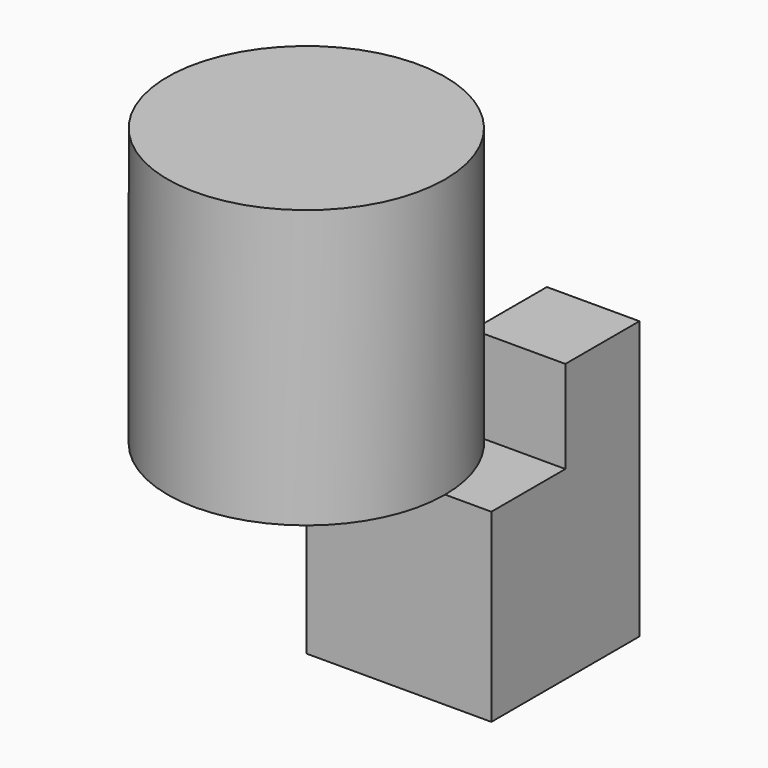
from build123d import *

# Parameters (mm, degrees)
F0_W     = 101.6
F0_H     = 101.6
F1_DEPTH = 101.6
F2_R     = 76.2
F3_DEPTH = 152.4
F4_W     = 50.8
F4_H     = 50.8
F5_DEPTH = 50.8


with BuildPart() as f1:
    # F0 (on Front) → F1 (new body)
    with BuildSketch(Plane.XZ):
        with Locations((50.8, 50.8)):
            Rectangle(F0_W, F0_H)
    extrude(amount=-F1_DEPTH)

    # F2 (on face) → F3 (join)
    with BuildSketch(Plane.XY.offset(101.6)):
        Circle(F2_R)
    extrude(amount=F3_DEPTH)

    # F4 (on face) → F5 (join)
    with BuildSketch(Plane.XY.offset(101.6)):
        with Locations((76.2, 76.2)):
            Rectangle(F4_W, F4_H)
    extrude(amount=F5_DEPTH)


solid = f1.part
